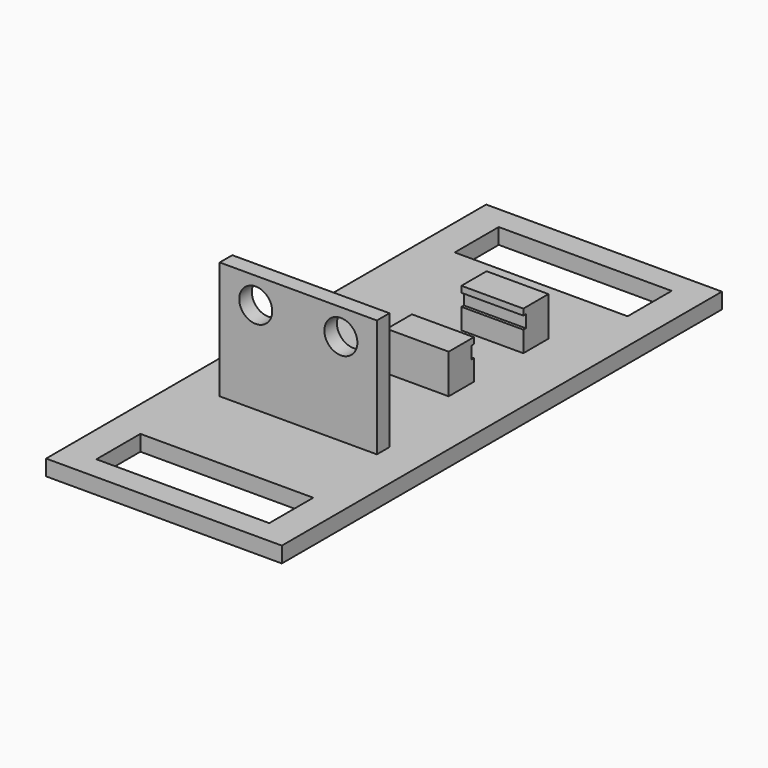
from build123d import *

# Parameters (mm, degrees)
F1_W      = 38.1
F1_H      = 88.9
F2_DEPTH  = 2.54
F0_W      = 10
F0_H      = 5.08
F0_W_2    = 25.4
F0_H_2    = 2.54
F3_DEPTH  = 6.35
F4_W      = 10
F4_H      = 2
F5_DEPTH  = 0.5
F6_W      = 10
F6_H      = 2
F7_DEPTH  = 0.5
F8_DEPTH  = 12.7
F9_R      = 2.665
F10_DEPTH = 61.9361865292
F11_W     = 27.94
F11_H     = 8.89
F12_DEPTH = 25.4


with BuildPart() as f2:
    # F1 (on Top) → F2 (new body)
    with BuildSketch(Plane.XY):
        with Locations((19.05, 44.45)):
            Rectangle(F1_W, F1_H)
    extrude(amount=-F2_DEPTH)

    # F0 (on Top) → F3 (join)
    with BuildSketch(Plane.XY):
        with Locations((24.05, 62.6320488313)):
            Rectangle(F0_W, F0_H)
        with Locations((24.05, 47.5520488313)):
            Rectangle(F0_W, F0_H)
        with Locations((19.1884456806, 28.2348134708)):
            Rectangle(F0_W_2, F0_H_2)
    extrude(amount=F3_DEPTH)

    # F4 (on face) → F5 (cut)
    with BuildSketch(Plane(origin=(0, 50.0920488313, 0), x_dir=(-1, 0, 0), z_dir=(0, 1, 0))):
        with Locations((-24.05, 4.35)):
            Rectangle(F4_W, F4_H)
    extrude(amount=-F5_DEPTH, mode=Mode.SUBTRACT)

    # F6 (on face) → F7 (cut)
    with BuildSketch(Plane.XZ.offset(-60.0920488313)):
        with Locations((24.05, 4.35)):
            Rectangle(F6_W, F6_H)
    extrude(amount=-F7_DEPTH, mode=Mode.SUBTRACT)

    # F8 (add): a face of the model
    f8_faces = [f2.faces().sort_by_distance(p)[0] for p in [
        (19.1884456806, 28.2348134708, 6.35),
    ]]
    extrude(f8_faces, amount=F8_DEPTH)

    # F9 (on face) → F10 (cut, through all)
    with BuildSketch(Plane.XZ.offset(-26.9648134708)):
        with Locations((12.3068671674, 14.8589983582)):
            Circle(F9_R)
        with Locations((26.0700241938, 14.8589983582)):
            Circle(F9_R)
    extrude(amount=-F10_DEPTH, mode=Mode.SUBTRACT)

    # F11 (on face) → F12 (cut)
    with BuildSketch(Plane.XY):
        with Locations((19.05, 80.645)):
            Rectangle(F11_W, F11_H)
        with Locations((19.05, 8.255)):
            Rectangle(F11_W, F11_H)
    extrude(amount=-F12_DEPTH, mode=Mode.SUBTRACT)


solid = f2.part
